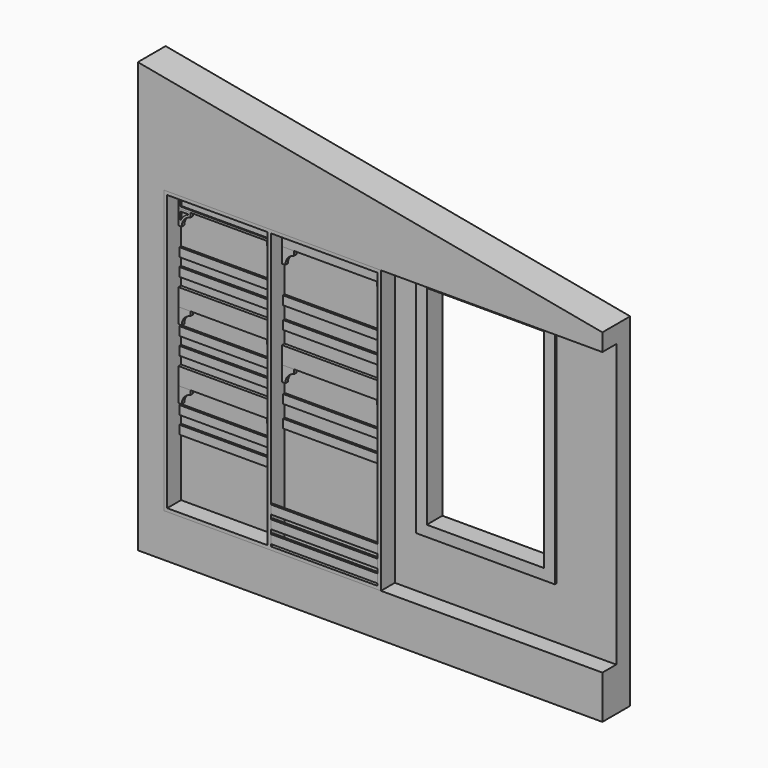
from build123d import *

# Parameters (mm, degrees)
F0_W      = 2565.4
F0_H      = 1651
F1_DEPTH  = 203.2
F2_DEPTH  = 101.6
F3_W      = 812.8
F3_H      = 1346.2
F3_W_2    = 685.8
F3_H_2    = 1219.2
F4_DEPTH  = 12.7
F5_DEPTH  = 101.601
F6_W      = 1270
F6_H      = 1651
F6_W_2    = 587.375
F6_H_2    = 1612.9
F6_W_3    = 625.475
F7_DEPTH  = 101.6
F8_W      = 19.05
F8_H      = 101.6
F9_DEPTH  = 587.375
F12_W     = 19.05
F12_H     = 101.6
F13_DEPTH = 625.475
F15_W     = 12.7
F15_H     = 50.8
F16_DEPTH = 587.375
F22_W     = 12.7
F22_H     = 50.8
F23_DEPTH = 625.475
F27_W     = 12.7
F27_H     = 50.8
F28_DEPTH = 625.475
F32_DEPTH = 19.05
F41_W     = 561.975
F41_H     = 76.2
F42_DEPTH = 6.35
F44_DEPTH = 6.35


with BuildPart() as f1:
    # F0 (on Front) → F1 (new body)
    with BuildSketch(Plane.XZ):
        Polygon((0, 2006.6), (0, 0), (2717.8, 0), (2717.8, 254), (152.4, 254), (152.4, 1905), (2717.8, 1905), (2717.8, 2006.6), align=None)
        Polygon((0, 2514.6), (0, 2006.6), (2717.8, 2006.6), align=None)
        with Locations((1435.1, 1079.5)):
            Rectangle(F0_W, F0_H)
    extrude(amount=-F1_DEPTH)

    # F0 (on Front) → F2 (cut)
    with BuildSketch(Plane.XZ):
        with Locations((1435.1, 1079.5)):
            Rectangle(F0_W, F0_H)
    extrude(amount=-F2_DEPTH, mode=Mode.SUBTRACT)

    # F3 (on face) → F4 (join)
    with BuildSketch(Plane.XZ.offset(-101.6)):
        with Locations((1962.15, 1231.9)):
            Rectangle(F3_W, F3_H)
        with Locations((1962.15, 1231.9)):
            Rectangle(F3_W_2, F3_H_2, mode=Mode.SUBTRACT)
    extrude(amount=F4_DEPTH)

    # F3 (on face) → F5 (cut, through all)
    with BuildSketch(Plane.XZ.offset(-101.6)):
        with Locations((1962.15, 1231.9)):
            Rectangle(F3_W_2, F3_H_2)
    extrude(amount=-F5_DEPTH, mode=Mode.SUBTRACT)


with BuildPart() as f7:
    # F6 (on face) → F7 (new body)
    with BuildSketch(Plane.XZ.offset(-101.6)):
        with Locations((787.4, 1079.5)):
            Rectangle(F6_W, F6_H)
        with Locations((465.1375, 1079.5)):
            Rectangle(F6_W_2, F6_H_2, mode=Mode.SUBTRACT)
        with Locations((1090.6125, 1079.5)):
            Rectangle(F6_W_3, F6_H_2, mode=Mode.SUBTRACT)
    extrude(amount=F7_DEPTH)


with BuildPart() as f9:
    # F8 (on face) → F9 (new body, through all)
    with BuildSketch(Plane.YZ.offset(171.45)):
        with Locations((92.075, 1835.15)):
            Rectangle(F8_W, F8_H)
    extrude(amount=F9_DEPTH)


with BuildPart() as f10_1:
    # F10: copy of F9
    add(f9.part.moved(Location((0, 0, -508))))


with BuildPart() as f11_1:
    # F11: copy of F10_1
    add(f10_1.part.moved(Location((0, 0, -406.4))))


with BuildPart() as f13:
    # F12 (on face) → F13 (new body, through all)
    with BuildSketch(Plane.YZ.offset(777.875)):
        with Locations((92.075, 1835.15)):
            Rectangle(F12_W, F12_H)
    extrude(amount=F13_DEPTH)


with BuildPart() as f14_1:
    # F14: copy of F13
    add(f13.part.moved(Location((0, 0, -609.6))))


with BuildPart() as f16:
    # F15 (on face) → F16 (new body, through all)
    with BuildSketch(Plane.YZ.offset(171.45)):
        with Locations((95.25, 1454.15)):
            Rectangle(F15_W, F15_H)
    extrude(amount=F16_DEPTH)


with BuildPart() as f17_1:
    # F17: copy of F16
    add(f16.part.moved(Location((0, 0, 101.6))))


with BuildPart() as f18_1:
    # F18: copy of F16
    add(f16.part.moved(Location((0, 0, -406.4))))


with BuildPart() as f19_1:
    # F19: copy of F18_1
    add(f18_1.part.moved(Location((0, 0, 101.6))))


with BuildPart() as f20_1:
    # F20: copy of F18_1
    add(f18_1.part.moved(Location((0, 0, -406.4))))


with BuildPart() as f21_1:
    # F21: copy of F20_1
    add(f20_1.part.moved(Location((0, 0, 101.6))))


with BuildPart() as f23:
    # F22 (on face) → F23 (new body, through all)
    with BuildSketch(Plane.YZ.offset(777.875)):
        with Locations((95.25, 1377.95)):
            Rectangle(F22_W, F22_H)
    extrude(amount=F23_DEPTH)


with BuildPart() as f24_1:
    # F24: copy of F23
    add(f23.part.moved(Location((0, 0, 127))))


with BuildPart() as f25_1:
    # F25: copy of F23
    add(f23.part.moved(Location((0, 0, -508))))


with BuildPart() as f26_1:
    # F26: copy of F25_1
    add(f25_1.part.moved(Location((0, 0, 127))))


with BuildPart() as f28:
    # F27 (on face) → F28 (new body, through all)
    with BuildSketch(Plane.YZ.offset(777.875)):
        with Locations((6.35, 311.15)):
            Rectangle(F27_W, F27_H)
    extrude(amount=F28_DEPTH)


with BuildPart() as f29_1:
    # F29: copy of F28
    add(f28.part.moved(Location((0, 0, 76.2))))


with BuildPart() as f30_1:
    # F30: copy of F29_1
    add(f29_1.part.moved(Location((0, 0, 76.2))))


with BuildPart() as f32:
    # F31 (on face) → F32 (new body, through all)
    with BuildSketch(Plane.XZ.offset(-101.6)):
        with BuildLine():
            Line((171.45, 1695.45), (190.5, 1695.45))
            ThreePointArc((190.5, 1695.45), (204.7627013654, 1736.1098389077), (241.3, 1758.95))
            Line((241.3, 1758.95), (241.3, 1784.35))
            Line((241.3, 1784.35), (171.45, 1784.35))
            Line((171.45, 1784.35), (171.45, 1695.45))
        make_face()
    extrude(amount=F32_DEPTH)


with BuildPart() as f33_1:
    # F33: copy of F32
    add(f32.part.moved(Location((0, 0, -508))))


with BuildPart() as f34_1:
    # F34: copy of F33_1
    add(f33_1.part.moved(Location((0, 0, -406.4))))


with BuildPart() as f36_1:
    # F36: instance of F32
    add(f32.part.mirror(Plane(origin=(465.1375, 50.8, 1079.5), x_dir=(0, 1, 0), z_dir=(1, 0, 0))))


with BuildPart() as f36_2:
    # F36: instance of F33_1
    add(f33_1.part.mirror(Plane(origin=(465.1375, 50.8, 1079.5), x_dir=(0, 1, 0), z_dir=(1, 0, 0))))


with BuildPart() as f36_3:
    # F36: instance of F34_1
    add(f34_1.part.mirror(Plane(origin=(465.1375, 50.8, 1079.5), x_dir=(0, 1, 0), z_dir=(1, 0, 0))))


with BuildPart() as f37_1:
    # F37: copy of F32
    add(f32.part.moved(Location((606.425, 0, 0))))


with BuildPart() as f38_1:
    # F38: copy of F37_1
    add(f37_1.part.moved(Location((0, 0, -609.6))))


with BuildPart() as f40_1:
    # F40: instance of F37_1
    add(f37_1.part.mirror(Plane(origin=(1090.6125, 50.8, 1079.5), x_dir=(0, 1, 0), z_dir=(1, 0, 0))))


with BuildPart() as f40_2:
    # F40: instance of F38_1
    add(f38_1.part.mirror(Plane(origin=(1090.6125, 50.8, 1079.5), x_dir=(0, 1, 0), z_dir=(1, 0, 0))))


with BuildPart() as f9_1:
    add(f9.part)

    # F41 (on face) → F42 (cut)
    with BuildSketch(Plane.XZ.offset(-82.55)):
        with Locations((465.1375, 1835.15)):
            Rectangle(F41_W, F41_H)
    extrude(amount=-F42_DEPTH, mode=Mode.SUBTRACT)


with BuildPart() as f32_1:
    add(f32.part)

    # F43 (on face) → F44 (cut)
    with BuildSketch(Plane.XZ.offset(-82.55)):
        with BuildLine():
            Line((228.6, 1771.65), (184.15, 1771.65))
            Line((184.15, 1771.65), (184.15, 1726.2327670946))
            ThreePointArc((184.15, 1726.2327670946), (202.0476606017, 1751.8803176799), (228.6, 1768.405945611))
            Line((228.6, 1768.405945611), (228.6, 1771.65))
        make_face()
    extrude(amount=-F44_DEPTH, mode=Mode.SUBTRACT)


solid = Compound([f1.part, f7.part, f10_1.part, f11_1.part, f13.part, f14_1.part, f16.part, f17_1.part, f18_1.part, f19_1.part, f20_1.part, f21_1.part, f23.part, f24_1.part, f25_1.part, f26_1.part, f28.part, f29_1.part, f30_1.part, f33_1.part, f34_1.part, f36_1.part, f36_2.part, f36_3.part, f37_1.part, f38_1.part, f40_1.part, f40_2.part, f9_1.part, f32_1.part])
